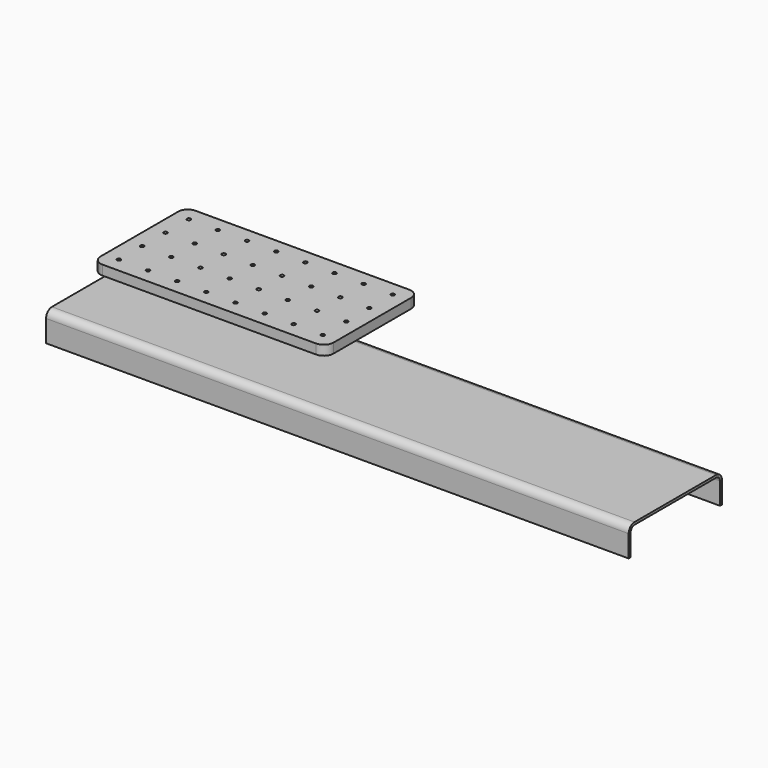
from build123d import *

# Parameters (mm, degrees)
F0_W     = 609.6
F0_H     = 304.8
F0_R     = 4.7625
F1_DEPTH = 25.4
F2_R     = 25.4
F4_DEPTH = 1524


with BuildPart() as f1:
    # F0 (on Top) → F1 (new body)
    with BuildSketch(Plane.XY):
        with Locations((304.8, 152.4)):
            Rectangle(F0_W, F0_H)
        with Locations((38.1, 38.1)):
            Circle(F0_R, mode=Mode.SUBTRACT)
        with Locations((114.3, 38.1)):
            Circle(F0_R, mode=Mode.SUBTRACT)
        with Locations((190.5, 38.1)):
            Circle(F0_R, mode=Mode.SUBTRACT)
        with Locations((266.7, 38.1)):
            Circle(F0_R, mode=Mode.SUBTRACT)
        with Locations((38.1, 114.3)):
            Circle(F0_R, mode=Mode.SUBTRACT)
        with Locations((114.3, 114.3)):
            Circle(F0_R, mode=Mode.SUBTRACT)
        with Locations((190.5, 114.3)):
            Circle(F0_R, mode=Mode.SUBTRACT)
        with Locations((266.7, 114.3)):
            Circle(F0_R, mode=Mode.SUBTRACT)
        with Locations((342.9, 38.1)):
            Circle(F0_R, mode=Mode.SUBTRACT)
        with Locations((419.1, 38.1)):
            Circle(F0_R, mode=Mode.SUBTRACT)
        with Locations((495.3, 38.1)):
            Circle(F0_R, mode=Mode.SUBTRACT)
        with Locations((571.5, 38.1)):
            Circle(F0_R, mode=Mode.SUBTRACT)
        with Locations((342.9, 114.3)):
            Circle(F0_R, mode=Mode.SUBTRACT)
        with Locations((419.1, 114.3)):
            Circle(F0_R, mode=Mode.SUBTRACT)
        with Locations((495.3, 114.3)):
            Circle(F0_R, mode=Mode.SUBTRACT)
        with Locations((571.5, 114.3)):
            Circle(F0_R, mode=Mode.SUBTRACT)
        with Locations((38.1, 190.5)):
            Circle(F0_R, mode=Mode.SUBTRACT)
        with Locations((114.3, 190.5)):
            Circle(F0_R, mode=Mode.SUBTRACT)
        with Locations((190.5, 190.5)):
            Circle(F0_R, mode=Mode.SUBTRACT)
        with Locations((266.7, 190.5)):
            Circle(F0_R, mode=Mode.SUBTRACT)
        with Locations((38.1, 266.7)):
            Circle(F0_R, mode=Mode.SUBTRACT)
        with Locations((114.3, 266.7)):
            Circle(F0_R, mode=Mode.SUBTRACT)
        with Locations((190.5, 266.7)):
            Circle(F0_R, mode=Mode.SUBTRACT)
        with Locations((266.7, 266.7)):
            Circle(F0_R, mode=Mode.SUBTRACT)
        with Locations((342.9, 190.5)):
            Circle(F0_R, mode=Mode.SUBTRACT)
        with Locations((419.1, 190.5)):
            Circle(F0_R, mode=Mode.SUBTRACT)
        with Locations((495.3, 190.5)):
            Circle(F0_R, mode=Mode.SUBTRACT)
        with Locations((571.5, 190.5)):
            Circle(F0_R, mode=Mode.SUBTRACT)
        with Locations((342.9, 266.7)):
            Circle(F0_R, mode=Mode.SUBTRACT)
        with Locations((419.1, 266.7)):
            Circle(F0_R, mode=Mode.SUBTRACT)
        with Locations((495.3, 266.7)):
            Circle(F0_R, mode=Mode.SUBTRACT)
        with Locations((571.5, 266.7)):
            Circle(F0_R, mode=Mode.SUBTRACT)
    extrude(amount=F1_DEPTH)

    # F2
    f2_edges = [f1.edges().sort_by_distance(p)[0] for p in [
        (0, 0, 12.7),
        (609.6, 0, 12.7),
        (609.6, 304.8, 12.7),
        (0, 304.8, 12.7),
    ]]
    fillet(f2_edges, radius=F2_R)


with BuildPart() as f4:
    # F3 (on Right) → F4 (new body)
    with BuildSketch(Plane.YZ):
        with BuildLine():
            Line((133.35, -25.984089), (0, -25.984089))
            Line((0, -25.984089), (-133.35, -25.984089))
            ThreePointArc((-133.35, -25.984089), (-146.820384, -31.563705), (-152.4, -45.034089))
            Line((-152.4, -45.034089), (-152.4, -102.184089))
            Line((-152.4, -102.184089), (-146.05, -102.184089))
            Line((-146.05, -102.184089), (-146.05, -45.034089))
            ThreePointArc((-146.05, -45.034089), (-142.330256, -36.053833), (-133.35, -32.334089))
            Line((-133.35, -32.334089), (0, -32.334089))
            Line((0, -32.334089), (133.35, -32.334089))
            ThreePointArc((133.35, -32.334089), (142.330256, -36.053833), (146.05, -45.034089))
            Line((146.05, -45.034089), (146.05, -102.184089))
            Line((146.05, -102.184089), (152.4, -102.184089))
            Line((152.4, -102.184089), (152.4, -45.034089))
            ThreePointArc((152.4, -45.034089), (146.820384, -31.563705), (133.35, -25.984089))
        make_face()
    extrude(amount=F4_DEPTH)


solid = Compound([f1.part, f4.part])
